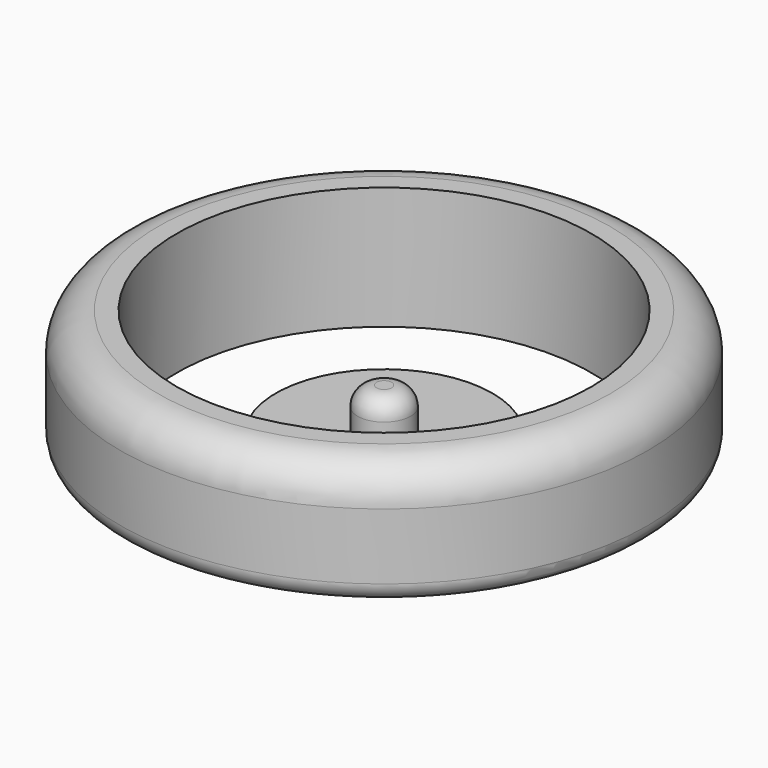
from build123d import *

# Parameters (mm, degrees)
F0_R     = 14
F0_R_2   = 11
F1_DEPTH = 6.5
F2_R     = 2
F3_R     = 1
F4_R     = 5.75
F4_R_2   = 1.4
F5_DEPTH = 0.75
F6_DEPTH = 3
F7_R     = 1


with BuildPart() as f1:
    # F0 (on Top) → F1 (new body)
    with BuildSketch(Plane.XY):
        Circle(F0_R)
        Circle(F0_R_2, mode=Mode.SUBTRACT)
    extrude(amount=F1_DEPTH)

    # F2
    f2_edges = [f1.edges().sort_by_distance(p)[0] for p in [
        (-14, 0, 6.5),
    ]]
    fillet(f2_edges, radius=F2_R)

    # F3
    f3_edges = [f1.edges().sort_by_distance(p)[0] for p in [
        (-14, 0, 0),
    ]]
    fillet(f3_edges, radius=F3_R)


with BuildPart() as f5:
    # F4 (on Top) → F5 (new body)
    with BuildSketch(Plane.XY):
        Circle(F4_R)
        Circle(F4_R_2, mode=Mode.SUBTRACT)
    extrude(amount=F5_DEPTH)

    # F4 (on Top) → F6 (join)
    with BuildSketch(Plane.XY):
        Circle(F4_R_2)
    extrude(amount=F6_DEPTH)

    # F7
    f7_edges = [f5.edges().sort_by_distance(p)[0] for p in [
        (-1.4, 0, 3),
    ]]
    fillet(f7_edges, radius=F7_R)


solid = Compound([f1.part, f5.part])
